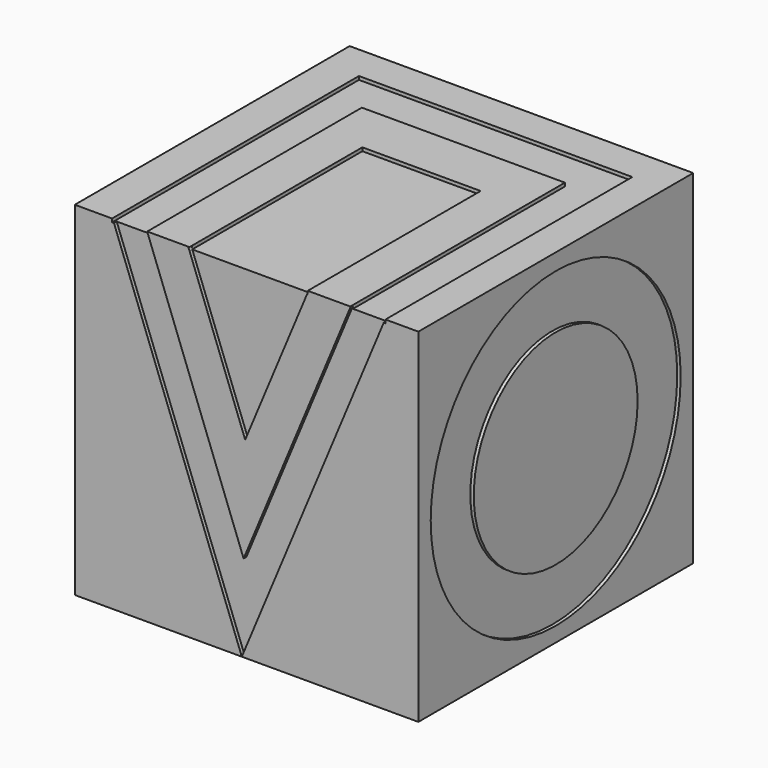
from build123d import *

# Parameters (mm, degrees)
BOX_W           = 10
BOX_H           = 10
BOX_DEPTH       = 10
SKETCH005_R     = 2.995854
PAD_DEPTH       = 1
CHAMFER_SIZE    = 0.5
POCKET_DEPTH    = 0.1
SKETCH002_R     = 4.475809
SKETCH002_R_2   = 2.994172
POCKET001_DEPTH = 0.1
SKETCH003_R     = 4.54676
SKETCH003_R_2   = 2.980749
POCKET002_DEPTH = 0.1
SKETCH001_W     = 3.442568
SKETCH001_H     = 6.289959
POCKET003_DEPTH = 0.1
POCKET004_DEPTH = 0.1


with BuildPart() as part:
    # Box → Box (new body)
    with BuildSketch(Plane.XY):
        with Locations((5, 5)):
            Rectangle(BOX_W, BOX_H)
    extrude(amount=BOX_DEPTH)

    # Sketch005 → Pad (new body)
    with BuildSketch(Plane(origin=(0, 0, 0), x_dir=(1, 0, 0), z_dir=(0, 0, -1))):
        with Locations((5.043108, -4.966595)):
            Circle(SKETCH005_R)
    extrude(amount=PAD_DEPTH)

    # Chamfer
    chamfer_edges = [part.edges().sort_by_distance(p)[0] for p in [
        (2.047254, 4.966595, -1),
    ]]
    chamfer(chamfer_edges, length=CHAMFER_SIZE)

    # Sketch → Pocket (cut)
    with BuildSketch(Plane.XZ):
        Polygon((1.103754, 9.998665), (4.861133, 0), (9.025593, 9.981961), (8.021794, 9.981961), (4.913553, 2.531693), (2.107553, 9.998665), align=None)
        Polygon((3.302861, 9.998682), (4.959537, 5.590146), (6.798772, 9.998682), align=None)
    extrude(amount=-POCKET_DEPTH, mode=Mode.SUBTRACT)

    # Sketch002 → Pocket001 (cut)
    with BuildSketch(Plane(origin=(0, 0, 0), x_dir=(0, -1, 0), z_dir=(-1, 0, 0))):
        with Locations((-5.03441, 4.975201)):
            Circle(SKETCH002_R)
        with Locations((-5.03441, 4.975201)):
            Circle(SKETCH002_R_2, mode=Mode.SUBTRACT)
    extrude(amount=-POCKET001_DEPTH, mode=Mode.SUBTRACT)

    # Sketch003 → Pocket002 (cut)
    with BuildSketch(Plane.YZ.offset(10)):
        with Locations((4.996224, 4.975201)):
            Circle(SKETCH003_R)
        with Locations((4.996224, 4.975201)):
            Circle(SKETCH003_R_2, mode=Mode.SUBTRACT)
    extrude(amount=-POCKET002_DEPTH, mode=Mode.SUBTRACT)

    # Sketch001 → Pocket003 (cut)
    with BuildSketch(Plane.XY.offset(10)):
        Polygon((1.084873, 0), (1.084873, 8.981867), (9.042541, 8.981867), (9.042541, 0), (8.018671, 0), (8.018671, 7.807773), (2.108743, 7.807773), (2.108743, 0), align=None)
        with Locations((5.059318, 3.144979)):
            Rectangle(SKETCH001_W, SKETCH001_H)
    extrude(amount=-POCKET003_DEPTH, mode=Mode.SUBTRACT)

    # Sketch004 → Pocket004 (cut)
    with BuildSketch(Plane(origin=(0, 10, 0), x_dir=(-1, 0, 0), z_dir=(0, 1, 0))):
        Polygon((-9.031718, 0.020387), (-9.031718, 9.147731), (-1.132726, 9.147731), (-1.132726, 0.020387), (-2.177661, 0.020387), (-2.177661, 8.15491), (-7.986783, 8.15491), (-7.986783, 0.020387), align=None)
    extrude(amount=-POCKET004_DEPTH, mode=Mode.SUBTRACT)


solid = part.part
